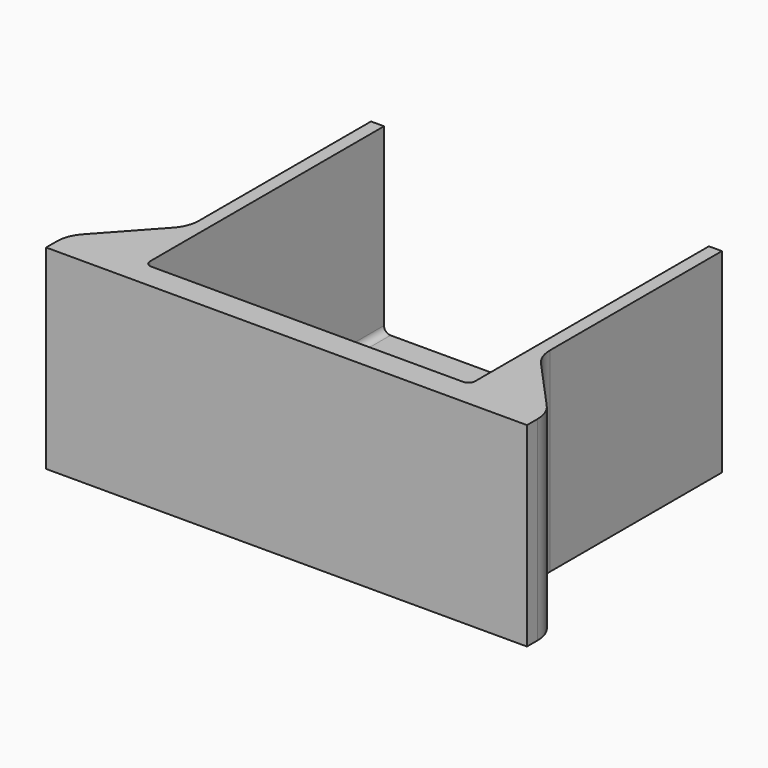
from build123d import *

# Parameters (mm, degrees)
F0_W     = 54
F0_H     = 50
F1_DEPTH = 30
F2_W     = 50
F2_H     = 46
F3_DEPTH = 28
F5_DEPTH = 30
F7_DEPTH = 30.001
F8_R     = 5
F9_R     = 1
F10_R    = 1


with BuildPart() as f1:
    # F0 (on Top) → F1 (new body)
    with BuildSketch(Plane.XY):
        Rectangle(F0_W, F0_H)
    extrude(amount=F1_DEPTH)

    # F2 (on face) → F3 (cut)
    with BuildSketch(Plane.XY.offset(30)):
        with Locations((0, 2)):
            Rectangle(F2_W, F2_H)
    extrude(amount=-F3_DEPTH, mode=Mode.SUBTRACT)

    # F4 (on face) → F5 (join, through all)
    with BuildSketch(Plane.XY.offset(30)):
        Polygon((-37, -25), (-27, -25), (-27, -10), (-37, -21), align=None)
        Polygon((27, -25), (37, -25), (37, -21), (27, -10), align=None)
    extrude(amount=-F5_DEPTH)

    # F6 (on face) → F7 (cut, through all)
    with BuildSketch(Plane(origin=(0, 0, 0), x_dir=(1, 0, 0), z_dir=(0, 0, -1))):
        with BuildLine():
            ThreePointArc((-16, -8.5), (-18, -10.5), (-16, -12.5))
            Line((-16, -12.5), (16, -12.5))
            ThreePointArc((16, -12.5), (18, -10.5), (16, -8.5))
            Line((16, -8.5), (-16, -8.5))
        make_face()
    extrude(amount=-F7_DEPTH, mode=Mode.SUBTRACT)

    # F8
    f8_edges = [f1.edges().sort_by_distance(p)[0] for p in [
        (-27, -10, 15),
        (-37, -21, 15),
        (27, -10, 15),
        (37, -21, 15),
    ]]
    fillet(f8_edges, radius=F8_R)

    # F9
    f9_edges = [f1.edges().sort_by_distance(p)[0] for p in [
        (-25, 2, 2),
        (25, 2, 2),
    ]]
    fillet(f9_edges, radius=F9_R)

    # F10
    f10_edges = [f1.edges().sort_by_distance(p)[0] for p in [
        (-25, -21, 16.5),
    ]]
    fillet(f10_edges, radius=F10_R)


solid = f1.part
